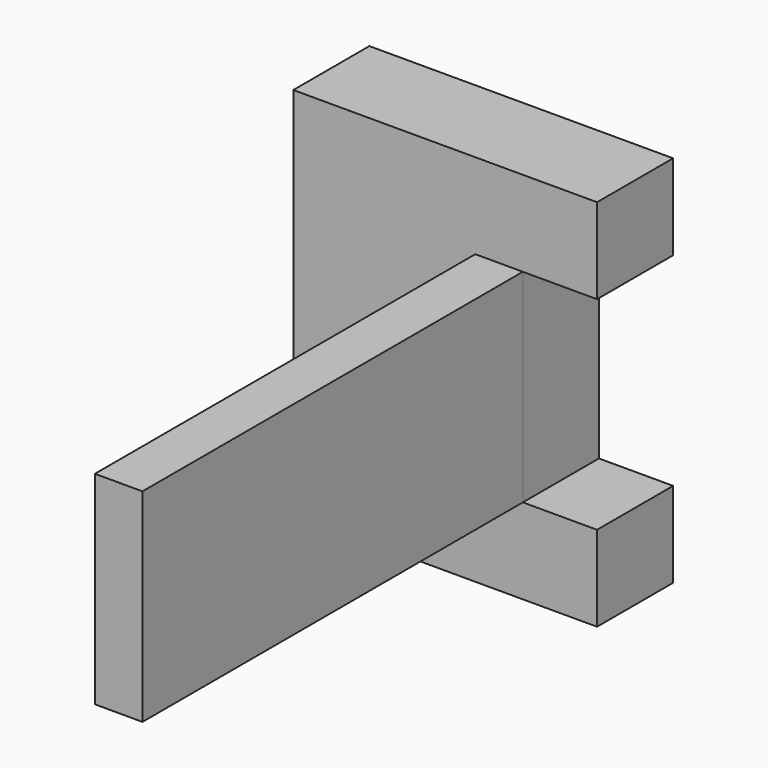
from build123d import *

# Parameters (mm, degrees)
F1_DEPTH = 20
F2_W     = 10.009345
F2_H     = 42.686916
F3_DEPTH = 100


with BuildPart() as f1:
    # F0 (on Front) → F1 (new body)
    with BuildSketch(Plane.XZ):
        Polygon((-29.586449, 39.301403), (-29.586449, 0), (-29.586449, -39.301403), (34.296732, -39.301403), (34.296732, -21.343458), (18.693926, -21.343458), (18.693926, 0), (18.693926, 21.343458), (34.296732, 21.343458), (34.296732, 39.301403), align=None)
    extrude(amount=F1_DEPTH)

    # F2 (on face) → F3 (join)
    with BuildSketch(Plane.XZ.offset(20)):
        with Locations((13.689253, 0)):
            Rectangle(F2_W, F2_H)
    extrude(amount=F3_DEPTH)


solid = f1.part
